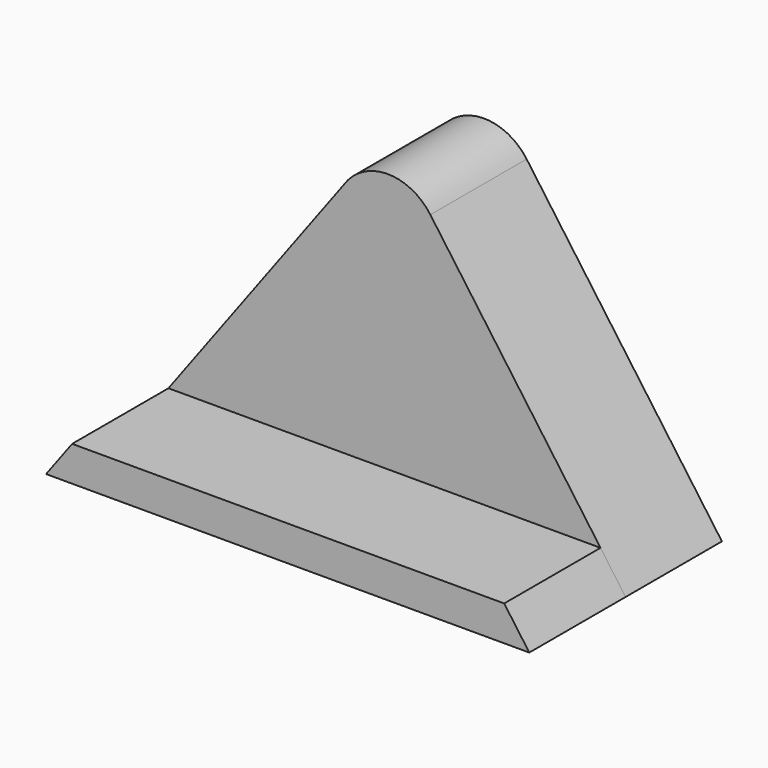
from build123d import *

# Parameters (mm, degrees)
F1_DEPTH = 25.4
F3_DEPTH = 25.4


with BuildPart() as f1:
    # F0 (on Front) → F1 (new body)
    with BuildSketch(Plane.XZ):
        with BuildLine():
            Line((-26.945552, 71.75348), (-70.242465, 13.442312))
            Line((-70.242465, 13.442312), (31.71479, 13.442312))
            Line((31.71479, 13.442312), (-9.48712, 71.055137))
            ThreePointArc((-9.48712, 71.055137), (-18.045509, 75.674933), (-26.945552, 71.75348))
        make_face()
    extrude(amount=F1_DEPTH)

    # F2 (on face) → F3 (join)
    with BuildSketch(Plane.XZ.offset(25.4)):
        Polygon((-64.744639, 20.846643), (-70.242465, 13.442312), (31.71479, 13.442312), (26.41957, 20.846643), align=None)
    extrude(amount=F3_DEPTH)


solid = f1.part
